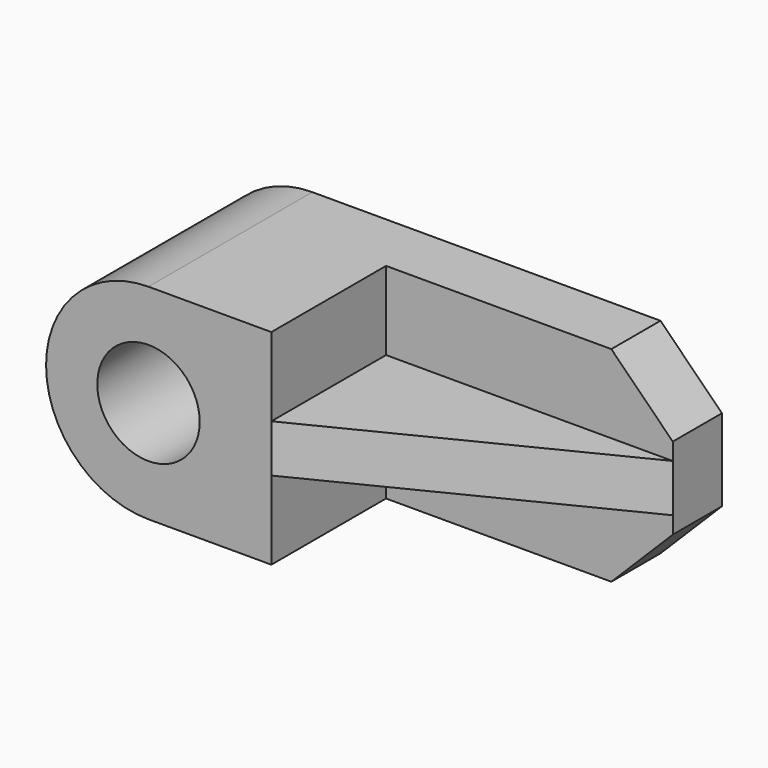
from build123d import *

# Parameters (mm, degrees)
F0_R     = 7.5
F1_DEPTH = 30
F2_DEPTH = 9
F4_DEPTH = 3.5


with BuildPart() as f1:
    # F0 (on Front) → F1 (new body)
    with BuildSketch(Plane.XZ):
        with BuildLine():
            Line((18, 15), (0, 15))
            ThreePointArc((0, 15), (-15, 0), (0, -15))
            Line((0, -15), (18, -15))
            Line((18, -15), (18, 15))
        make_face()
        Circle(F0_R, mode=Mode.SUBTRACT)
    extrude(amount=F1_DEPTH)

    # F0 (on Front) → F2 (join)
    with BuildSketch(Plane.XZ):
        Polygon((51, 15), (18, 15), (18, -15), (51, -15), (60, -6), (60, 6), align=None)
    extrude(amount=F2_DEPTH)

    # F3 (on Top) → F4 (join, symmetric)
    with BuildSketch(Plane.XY):
        Polygon((18, -9), (18, -30), (60, -9), align=None)
    extrude(amount=F4_DEPTH, both=True)


solid = f1.part
